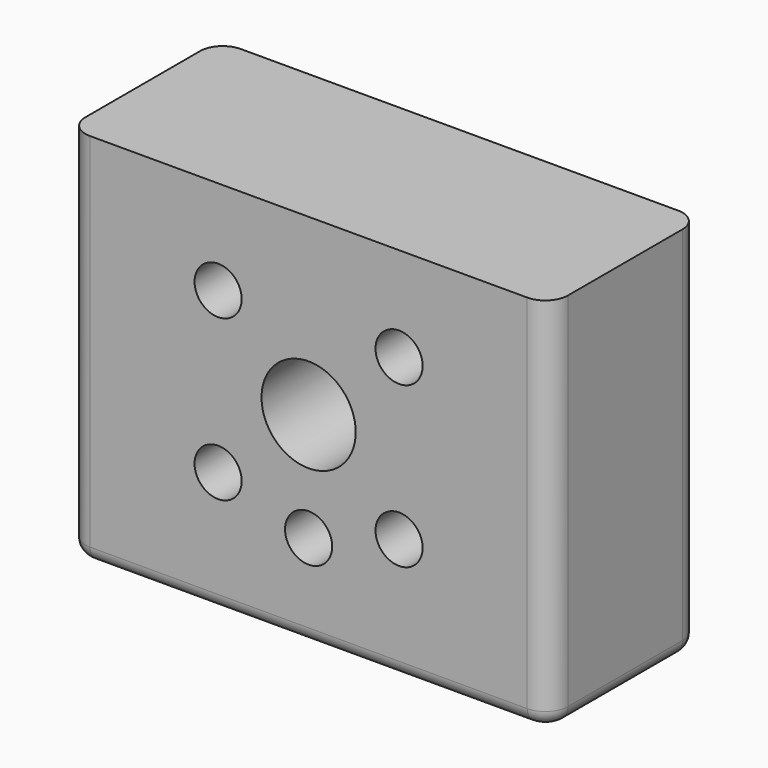
from build123d import *

# Parameters (mm, degrees)
F1_DEPTH = 200
F3_D     = 25
F4_R     = 8
F5_D     = 50


with BuildPart() as f1:
    # F0 (on Top) → F1 (new body)
    with BuildSketch(Plane.XY):
        with BuildLine():
            Line((116, 50), (-116, 50))
            ThreePointArc((-116, 50), (-124.485281, 46.485281), (-128, 38))
            Line((-128, 38), (-128, -38))
            ThreePointArc((-128, -38), (-124.485281, -46.485281), (-116, -50))
            Line((-116, -50), (116, -50))
            ThreePointArc((116, -50), (124.485281, -46.485281), (128, -38))
            Line((128, -38), (128, 38))
            ThreePointArc((128, 38), (124.485281, 46.485281), (116, 50))
        make_face()
    extrude(amount=-F1_DEPTH)

    # F3 (through all)
    with Locations(Plane.XZ.offset(50)):
        with Locations((-48, -50), (48, -50), (48, -135), (0, -150), (-48, -135)):
            Hole(F3_D / 2)

    # F4
    f4_edges = [f1.edges().sort_by_distance(p)[0] for p in [
        (128, 0, -200),
    ]]
    fillet(f4_edges, radius=F4_R)

    # F5 (through all)
    with Locations(Plane.XZ.offset(50)):
        with Locations((0, -92.5)):
            Hole(F5_D / 2)


solid = f1.part
